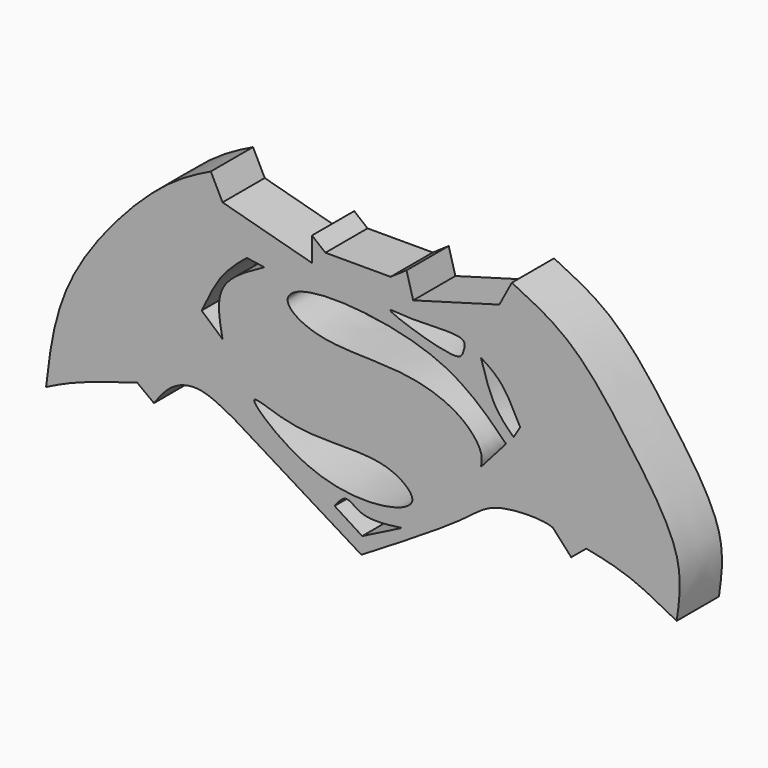
from build123d import *

# Parameters (mm, degrees)
F1_DEPTH = 12.7


with BuildPart() as f1:
    # F0 (on Front) → F1 (new body)
    with BuildSketch(Plane.XZ):
        with BuildLine():
            add(Edge.make_bspline(
                [(-76.0849788785, -13.5866040364), (-75.1266334343, -5.3273665478), (-73.0771035303, 12.335945069), (-49.6056721398, 38.4653316771), (-40.1545708662, 43.144034753), (-36.4322289824, 44.9867546558)],
                knots=[0, 0, 0, 0, 0.3474100913, 0.7429756935, 1, 1, 1, 1], degree=3))
            add(Edge.make_bspline(
                [(-54.1451312602, -5.5352831259), (-59.5874650975, -7.1701927341), (-68.8575981646, -9.954996106), (-73.9728163094, -12.5252864388), (-76.0849788785, -13.5866040364)],
                knots=[0, 0, 0, 0, 0.5870826015, 1, 1, 1, 1], degree=3))
            add(Edge.make_bspline(
                [(-50.1194708049, -8.5545284674), (-51.4613576233, -7.5481133536), (-52.8032444417, -6.5416982397), (-54.1451312602, -5.5352831259)],
                knots=[0, 0, 0, 0, 5.032075569, 5.032075569, 5.032075569, 5.032075569], degree=3))
            add(Edge.make_bspline(
                [(-30.9975855052, -5.5352831259), (-33.8619504322, -3.9726631978), (-39.1340688079, -1.0965222565), (-46.1454382464, -3.1601805859), (-48.7910919356, -6.7513882983), (-50.1194708049, -8.5545284674)],
                knots=[0, 0, 0, 0, 0.3719873227, 0.6846757481, 1, 1, 1, 1], degree=3))
            add(Edge.make_bspline(
                [(-0.1913821681, -24.4558863342), (-10.4601166138, -18.1490185981), (-20.7288510595, -11.842150862), (-30.9975855052, -5.5352831259)],
                knots=[0, 0, 0, 0, 36.1526124895, 36.1526124895, 36.1526124895, 36.1526124895], degree=3))
            add(Edge.make_bspline(
                [(45.8925291896, -3.7237356883), (43.5563374976, -2.6994919805), (31.467830704, -2.6862082338), (24.8869596515, -9.1908633624), (9.5723523332, -18.5127648741), (-0.1913821681, -24.4558863342)],
                knots=[0.1086851231, 0.1086851231, 0.1086851231, 0.1086851231, 0.372618457, 0.6000167233, 1, 1, 1, 1], degree=3))
            add(Edge.make_bspline(
                [(47.3686046898, -5.333999948), (47.1115771965, -4.7397545063), (46.8545497032, -4.1455090646), (45.8925291896, -3.7237356883)],
                knots=[0, 0, 0, 0, 0.1086851231, 0.1086851231, 0.1086851231, 0.1086851231], degree=3))
            add(Edge.make_bspline(
                [(50.3207556903, -8.5545284674), (49.3367053568, -7.4810189609), (48.3526550233, -6.4075094544), (47.3686046898, -5.333999948)],
                knots=[0, 0, 0, 0, 4.3688670699, 4.3688670699, 4.3688670699, 4.3688670699], degree=3))
            add(Edge.make_bspline(
                [(53.9438463748, -5.5352831259), (52.7361494799, -6.5416982397), (51.5284525851, -7.5481133536), (50.3207556903, -8.5545284674)],
                knots=[0, 0, 0, 0, 4.716209128, 4.716209128, 4.716209128, 4.716209128], degree=3))
            add(Edge.make_bspline(
                [(75.7022145423, -13.7878870592), (71.7646079253, -11.6706982095), (64.3027957037, -7.6585997014), (57.2668946221, -6.2164220331), (53.9438463748, -5.5352831259)],
                knots=[0, 0, 0, 0, 0.5277011133, 1, 1, 1, 1], degree=3))
            add(Edge.make_bspline(
                [(36.0296629369, 44.9867546558), (40.7748212655, 42.7061135319), (51.1454645652, 37.7217244023), (64.5500880531, 19.6880556989), (77.7966344464, 0.8665923491), (76.3419932471, -9.3114094257), (75.7022145423, -13.7878870592)],
                knots=[0, 0, 0, 0, 0.2333183418, 0.5099221418, 0.7844544912, 1, 1, 1, 1], degree=3))
            add(Edge.make_bspline(
                [(33.0104157329, 39.3508300185), (34.0168314675, 41.2294715643), (35.0232472022, 43.1081131101), (36.0296629369, 44.9867546558)],
                knots=[0, 0, 0, 0, 6.3937078598, 6.3937078598, 6.3937078598, 6.3937078598], degree=3))
            add(Edge.make_bspline(
                [(12.2782653198, 33.5136242211), (19.1889821241, 35.4593594869), (26.0996989285, 37.4050947527), (33.0104157329, 39.3508300185)],
                knots=[0, 0, 0, 0, 21.5382225885, 21.5382225885, 21.5382225885, 21.5382225885], degree=3))
            add(Edge.make_bspline(
                [(10.667999275, 39.3508300185), (11.2047546233, 37.4050947527), (11.7415099715, 35.4593594869), (12.2782653198, 33.5136242211)],
                knots=[0, 0, 0, 0, 6.0552397357, 6.0552397357, 6.0552397357, 6.0552397357], degree=3))
            add(Edge.make_bspline(
                [(6.8436227739, 36.7341525853), (8.1184149409, 37.6063783964), (9.393207108, 38.4786042074), (10.667999275, 39.3508300185)],
                knots=[0, 0, 0, 0, 4.633881355, 4.633881355, 4.633881355, 4.633881355], degree=3))
            add(Edge.make_bspline(
                [(-8.8564530015, 36.7341525853), (-3.6230944097, 36.7341525853), (1.6102641821, 36.7341525853), (6.8436227739, 36.7341525853)],
                knots=[0, 0, 0, 0, 15.7000757754, 15.7000757754, 15.7000757754, 15.7000757754], degree=3))
            add(Edge.make_bspline(
                [(-12.0769813657, 39.3508300185), (-11.003471911, 38.4786042074), (-9.9299624562, 37.6063783964), (-8.8564530015, 36.7341525853)],
                knots=[0, 0, 0, 0, 4.1495546429, 4.1495546429, 4.1495546429, 4.1495546429], degree=3))
            add(Edge.make_bspline(
                [(-12.0769813657, 33.5136242211), (-12.0769813657, 35.4593594869), (-12.0769813657, 37.4050947527), (-12.0769813657, 39.3508300185)],
                knots=[0, 0, 0, 0, 5.8372057974, 5.8372057974, 5.8372057974, 5.8372057974], degree=3))
            add(Edge.make_bspline(
                [(-33.6142629385, 39.3508300185), (-26.4351690809, 37.4050947527), (-19.2560752233, 35.4593594869), (-12.0769813657, 33.5136242211)],
                knots=[0, 0, 0, 0, 22.3142884509, 22.3142884509, 22.3142884509, 22.3142884509], degree=3))
            add(Edge.make_bspline(
                [(-36.4322289824, 44.9867546558), (-35.4929069678, 43.1081131101), (-34.5535849531, 41.2294715643), (-33.6142629385, 39.3508300185)],
                knots=[0, 0, 0, 0, 6.3011569686, 6.3011569686, 6.3011569686, 6.3011569686], degree=3))
        make_face()
        with BuildLine():
            add(Edge.make_bspline(
                [(-25.9655099362, 0), (-26.4053859361, -0.9492438834), (-12.8347117123, -13.0033917423), (6.6146725075, -13.252580443), (14.1418353423, -8.9267539058), (6.5770467519, -2.8613569567), (-5.4798314929, -2.9435458935), (-17.5978501683, -2.8913700534), (-25.6668002692, 0.6446096726), (-25.9655099362, 0)],
                knots=[0, 0, 0, 0, 0.1694237236, 0.3664343089, 0.4657084991, 0.5763378141, 0.726556048, 0.8849482489, 1, 1, 1, 1], degree=3))
        make_face(mode=Mode.SUBTRACT)
        with BuildLine():
            add(Edge.make_bspline(
                [(-6.6423397511, -16.203282401), (-4.4282265007, -17.6122635603), (-2.2141132504, -19.0212447196), (0, -20.430225879)],
                knots=[0, 0, 0, 0, 7.8732285967, 7.8732285967, 7.8732285967, 7.8732285967], degree=3))
            add(Edge.make_bspline(
                [(9.5723523332, -15.599434264), (5.9062627188, -16.0825425035), (-0.1237685013, -16.8771651324), (-3.82224687, -12.5788660357), (-5.7164585763, -15.0133290824), (-6.6423397511, -16.203282401)],
                knots=[0, 0, 0, 0, 0.4422120481, 0.7273560487, 1, 1, 1, 1], degree=3))
            add(Edge.make_bspline(
                [(0, -20.430225879), (3.1907841111, -18.8199620073), (6.3815682221, -17.2096981357), (9.5723523332, -15.599434264)],
                knots=[0, 0, 0, 0, 10.7222421544, 10.7222421544, 10.7222421544, 10.7222421544], degree=3))
        make_face(mode=Mode.SUBTRACT)
        with BuildLine():
            add(Edge.make_bspline(
                [(-27.7810885193, 29.4879619032), (-26.3707635673, 29.2866788805), (-24.9604386152, 29.0853958577), (-23.5501136631, 28.8841128349)],
                knots=[0, 0, 0, 0, 4.2738486089, 4.2738486089, 4.2738486089, 4.2738486089], degree=3))
            add(Edge.make_bspline(
                [(-23.5501136631, 28.8841128349), (-27.7810885193, 26.5999283672), (-35.8801380352, 22.2274790534), (-34.3466505961, 14.19997935), (-33.6142629385, 10.3660766035)],
                knots=[0, 0, 0, 0, 0.5224038757, 1, 1, 1, 1], degree=3))
            add(Edge.make_bspline(
                [(-33.6142629385, 10.3660766035), (-35.2916220824, 11.8421517933), (-36.9689812263, 13.3182269831), (-38.6463403702, 14.794302173)],
                knots=[0, 0, 0, 0, 6.7030578822, 6.7030578822, 6.7030578822, 6.7030578822], degree=3))
            add(Edge.make_bspline(
                [(-38.6463403702, 14.794302173), (-37.107008463, 18.0512181699), (-34.2057412112, 24.1897147991), (-29.8335271215, 27.7953681706), (-27.7810885193, 29.4879619032)],
                knots=[0, 0, 0, 0, 0.5305722547, 1, 1, 1, 1], degree=3))
        make_face(mode=Mode.SUBTRACT)
        with BuildLine():
            add(Edge.make_bspline(
                [(28.5821892321, 3.5224528983), (30.5950194597, 5.8036608001), (32.6078496873, 8.0848687018), (34.620679915, 10.3660766035)],
                knots=[0, 0, 0, 0, 9.1268042132, 9.1268042132, 9.1268042132, 9.1268042132], degree=3))
            add(Edge.make_bspline(
                [(34.620679915, 10.3660766035), (29.7427422613, 15.2798370903), (19.0995022745, 26.0012394149), (-13.8669190621, 29.1066006849), (-19.8201411378, 23.0283141679), (-9.783296683, 16.9342926846), (9.4145944389, 18.4802235257), (23.7464212879, 13.7503156822), (29.1806991926, 6.9104832035), (28.7491771328, 4.4677338551), (28.5821892321, 3.5224528983)],
                knots=[0, 0, 0, 0, 0.1670433699, 0.3644742514, 0.4414421431, 0.5449588273, 0.703865198, 0.8412139653, 0.9385539024, 1, 1, 1, 1], degree=3))
        make_face(mode=Mode.SUBTRACT)
        with BuildLine():
            add(Edge.make_bspline(
                [(6.8436227739, 29.4879619032), (7.88056868, 28.606151301), (23.3162050314, 23.423410194), (24.3010540214, 26.4337667412), (25.6266900106, 30.4901189993), (13.1659209359, 28.8836158477), (6.245101303, 29.9969398312), (6.8436227739, 29.4879619032)],
                knots=[0, 0, 0, 0, 0.3130715829, 0.4325993415, 0.549750713, 0.8192962013, 1, 1, 1, 1], degree=3))
        make_face(mode=Mode.SUBTRACT)
        with BuildLine():
            add(Edge.make_bspline(
                [(28.5821892321, 26.6700014472), (29.5561778847, 23.3938715337), (31.349720558, 17.3610714725), (34.8381853239, 13.9414787032), (36.4322289824, 12.3789058998)],
                knots=[0, 0, 0, 0, 0.5430529572, 1, 1, 1, 1], degree=3))
            add(Edge.make_bspline(
                [(38.0424894392, 14.9955851957), (36.527127254, 18.0024512887), (33.8127106111, 23.3885480548), (30.1847767597, 25.6645918718), (28.5821892321, 26.6700014472)],
                knots=[0, 0, 0, 0, 0.5582644025, 1, 1, 1, 1], degree=3))
            add(Edge.make_bspline(
                [(36.4322289824, 12.3789058998), (36.968982468, 13.2511323318), (37.5057359536, 14.1233587638), (38.0424894392, 14.9955851957)],
                knots=[0, 0, 0, 0, 3.0724500446, 3.0724500446, 3.0724500446, 3.0724500446], degree=3))
        make_face(mode=Mode.SUBTRACT)
        with BuildLine():
            add(Edge.make_bspline(
                [(47.3686046898, -5.333999948), (47.1115771965, -4.7397545063), (46.8545497032, -4.1455090646), (45.8925291896, -3.7237356883)],
                knots=[0, 0, 0, 0, 0.1086851231, 0.1086851231, 0.1086851231, 0.1086851231], degree=3))
            add(Edge.make_bspline(
                [(47.3686046898, -5.333999948), (46.8765795231, -4.7972451947), (46.3845543563, -4.2604904415), (45.8925291896, -3.7237356883)],
                knots=[4.3688670699, 4.3688670699, 4.3688670699, 4.3688670699, 6.5533006048, 6.5533006048, 6.5533006048, 6.5533006048], degree=3))
        make_face()
    extrude(amount=F1_DEPTH)


solid = f1.part
